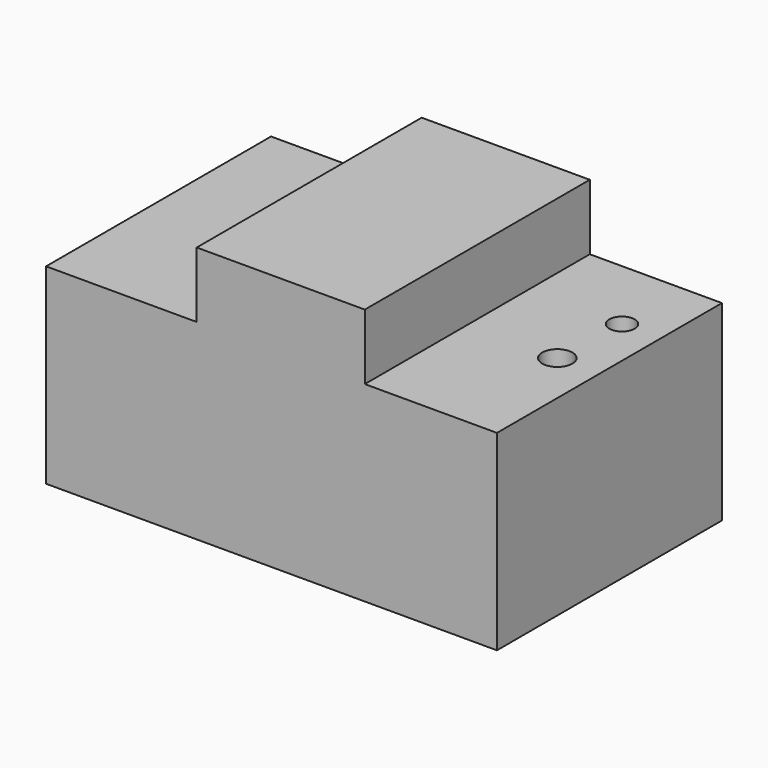
from build123d import *

# Parameters (mm, degrees)
F1_DEPTH = 31.4452
F3_R     = 1.686467
F4_DEPTH = 25.4
F3_R_2   = 1.420474
F5_DEPTH = 25.4


with BuildPart() as f1:
    # F0 (on Front) → F1 (new body)
    with BuildSketch(Plane.XZ):
        Polygon((-8.363467, 10.70378), (-25.210224, 10.70378), (-25.210224, -10.70378), (25.210224, -10.70378), (25.210224, 10.70378), (10.432723, 10.70378), (10.432723, 18.035768), (-8.363467, 18.035768), align=None)
    extrude(amount=-F1_DEPTH)

    # F3 (on face) → F4 (cut)
    with BuildSketch(Plane(origin=(0, 0, -10.70378), x_dir=(1, 0, 0), z_dir=(0, 0, -1))):
        with Locations((20.485872, -14.341232)):
            Circle(F3_R)
    extrude(amount=-F4_DEPTH, mode=Mode.SUBTRACT)

    # F3 (on face) → F5 (cut)
    with BuildSketch(Plane(origin=(0, 0, -10.70378), x_dir=(1, 0, 0), z_dir=(0, 0, -1))):
        with Locations((20.874409, -22.897052)):
            Circle(F3_R_2)
    extrude(amount=-F5_DEPTH, mode=Mode.SUBTRACT)


solid = f1.part
